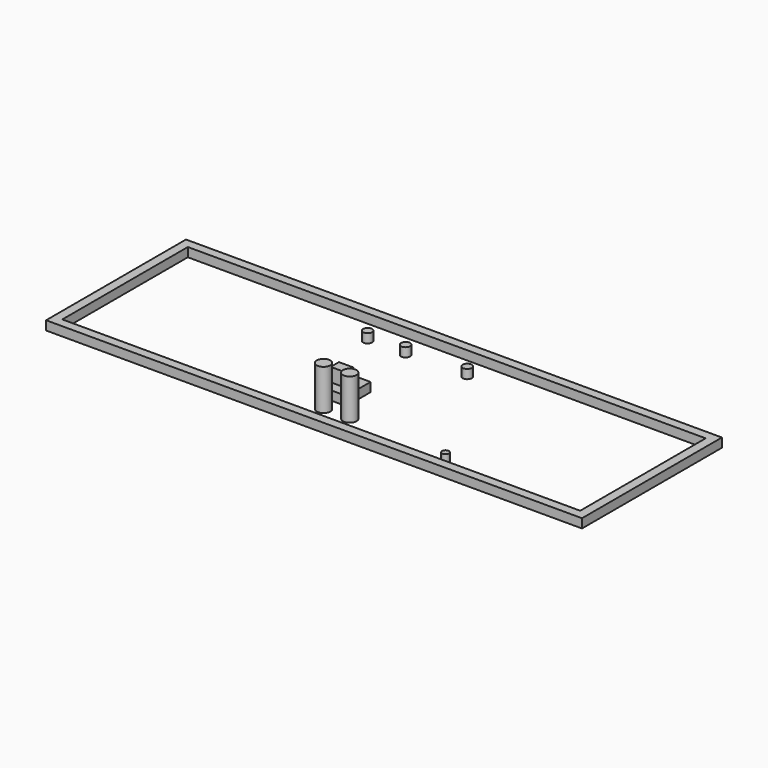
from build123d import *

# Parameters (mm, degrees)
F0_W     = 118.6
F0_H     = 38.7
F0_W_2   = 114.6
F0_H_2   = 34.7
F1_DEPTH = 2
F0_W_3   = 6.7
F0_H_3   = 6.7
F0_W_4   = 3.2661254518
F0_H_4   = 2.2862879559
F0_R     = 1
F0_R_2   = 0.75
F0_R_3   = 1.5
F2_DEPTH = 9
F3_DEPTH = 5


with BuildPart() as f1:
    # F0 (on Top) → F1 (new body)
    with BuildSketch(Plane.XY):
        Rectangle(F0_W, F0_H)
        Rectangle(F0_W_2, F0_H_2, mode=Mode.SUBTRACT)
    extrude(amount=F1_DEPTH)


with BuildPart() as f1b:
    # F0 (on Top) → F1, piece 2 (new body)
    with BuildSketch(Plane.XY):
        with Locations((-4.45, -5.7)):
            Rectangle(F0_W_3, F0_H_3)
        with Locations((-4.7700782306, -5.6086238474)):
            Rectangle(F0_W_4, F0_H_4, mode=Mode.SUBTRACT)
    extrude(amount=F1_DEPTH)

    # F0 (on Top) → F3 (join)
    with BuildSketch(Plane.XY):
        with Locations((-4.7700782306, -5.6086238474)):
            Rectangle(F0_W_4, F0_H_4)
    extrude(amount=F3_DEPTH)


with BuildPart() as f1c:
    # F0 (on Top) → F1, piece 3 (new body)
    with BuildSketch(Plane.XY):
        with Locations((-13.5, 12.35)):
            Circle(F0_R)
    extrude(amount=F1_DEPTH)


with BuildPart() as f1d:
    # F0 (on Top) → F1, piece 4 (new body)
    with BuildSketch(Plane.XY):
        with Locations((-5.1, 12.35)):
            Circle(F0_R)
    extrude(amount=F1_DEPTH)


with BuildPart() as f1e:
    # F0 (on Top) → F1, piece 5 (new body)
    with BuildSketch(Plane.XY):
        with Locations((8.3, 12.65)):
            Circle(F0_R)
    extrude(amount=F1_DEPTH)


with BuildPart() as f1f:
    # F0 (on Top) → F1, piece 6 (new body)
    with BuildSketch(Plane.XY):
        with Locations((25.45, -14.8)):
            Circle(F0_R_2)
    extrude(amount=F1_DEPTH)


with BuildPart() as f2:
    # F0 (on Top) → F2 (new body)
    with BuildSketch(Plane.XY):
        with Locations((-3.5, -12.35)):
            Circle(F0_R_3)
    extrude(amount=F2_DEPTH)


with BuildPart() as f2b:
    # F0 (on Top) → F2, piece 2 (new body)
    with BuildSketch(Plane.XY):
        with Locations((2.3, -12.35)):
            Circle(F0_R_3)
    extrude(amount=F2_DEPTH)


solid = Compound([f1.part, f1b.part, f1c.part, f1d.part, f1e.part, f1f.part, f2.part, f2b.part])
